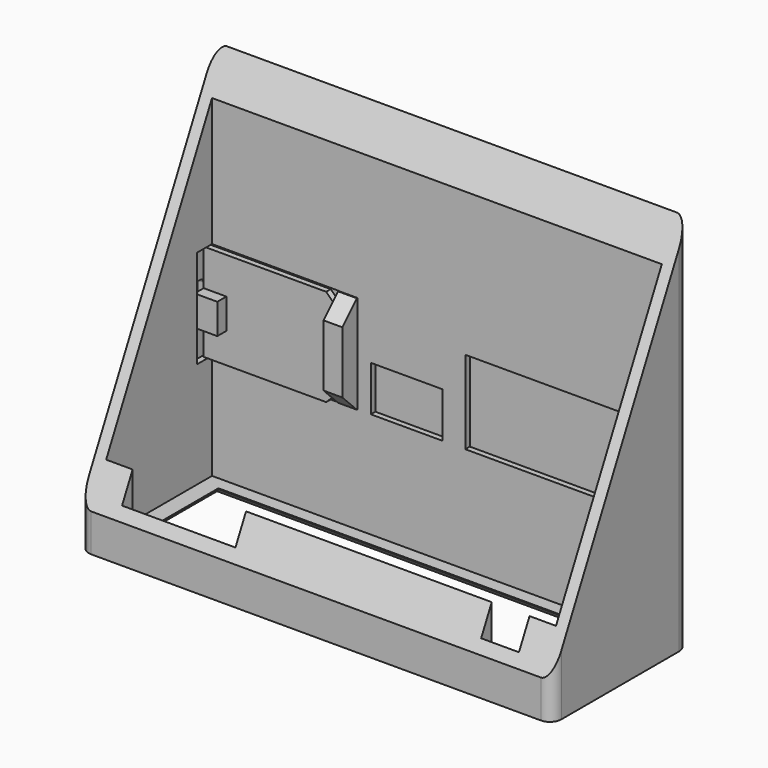
from build123d import *

# Parameters (mm, degrees)
SKETCH_W             = 125
SKETCH_H             = 45
PAD_DEPTH            = 100
SKETCH001_W          = 110
SKETCH001_H          = 28
POCKET_DEPTH         = 100
SKETCH002_W          = 119
SKETCH002_H          = 35
POCKET001_DEPTH      = 98
SKETCH003_W          = 30
SKETCH003_H          = 3.5
SKETCH003_W_2        = 10
POCKET002_DEPTH      = 98
FILLET001_R          = 3
CHAMFER_SIZE         = 1.8
POCKET003_DEPTH      = 125
SKETCH005_W          = 35
SKETCH005_H          = 26
POCKET004_DEPTH      = 2
POCKET004_DEPTH_BACK = -5
SKETCH006_W          = 5
SKETCH006_H          = 25.95
PAD001_DEPTH         = 5
CHAMFER001_SIZE      = 4.8
SKETCH007_W          = 4
SKETCH007_H          = 9
POCKET005_DEPTH      = 5
FILLET_R             = 1
SKETCH008_W          = 19
SKETCH008_H          = 12
SKETCH008_W_2        = 44
SKETCH008_H_2        = 22
POCKET006_DEPTH      = 1.5
SKETCH009_W          = 34.4
SKETCH009_H          = 25.7
PAD002_DEPTH         = 1.5
SKETCH010_W          = 24.1
SKETCH010_H          = 16
PAD003_DEPTH         = 0.8
SKETCH011_W          = 15
SKETCH011_H          = 12
PAD004_DEPTH         = 2.5
CHAMFER002_SIZE      = 2
SKETCH012_W          = 6
SKETCH012_H          = 8
PAD005_DEPTH         = 3


with BuildPart() as body:
    # Sketch → Pad (new body)
    with BuildSketch(Plane.XY):
        with Locations((62.5, 22.5)):
            Rectangle(SKETCH_W, SKETCH_H)
    extrude(amount=PAD_DEPTH)

    # Sketch001 (on Face6 of Pad) → Pocket (cut)
    with BuildSketch(Plane.XY.offset(100)):
        with Locations((62.5, 22.5)):
            Rectangle(SKETCH001_W, SKETCH001_H)
    extrude(amount=-POCKET_DEPTH, mode=Mode.SUBTRACT)

    # Sketch002 (on Face5 of Pocket) → Pocket001 (cut)
    with BuildSketch(Plane.XY.offset(100)):
        with Locations((62.5, 22.5)):
            Rectangle(SKETCH002_W, SKETCH002_H)
    extrude(amount=-POCKET001_DEPTH, mode=Mode.SUBTRACT)

    # Sketch003 (on Face5 of Pocket001) → Pocket002 (cut)
    with BuildSketch(Plane.XY.offset(100)):
        with Locations((25, 3.25)):
            Rectangle(SKETCH003_W, SKETCH003_H)
        with Locations((110, 3.25)):
            Rectangle(SKETCH003_W_2, SKETCH003_H)
    extrude(amount=-POCKET002_DEPTH, mode=Mode.SUBTRACT)

    # Fillet001
    fillet001_edges = [body.edges().sort_by_distance(p)[0] for p in [
        (125, 45, 50),
        (125, 0, 50),
        (0, 0, 50),
        (0, 45, 50),
    ]]
    fillet(fillet001_edges, radius=FILLET001_R)

    # Chamfer
    chamfer_edges = [body.edges().sort_by_distance(p)[0] for p in [
        (62.5, 8.5, 0),
        (62.5, 36.5, 0),
        (7.5, 22.5, 0),
        (117.5, 22.5, 0),
    ]]
    chamfer(chamfer_edges, length=CHAMFER_SIZE)

    # Sketch004 (on Face9 of Chamfer) → Pocket003 (cut)
    with BuildSketch(Plane(origin=(0, 0, 0), x_dir=(0, -1, 0), z_dir=(-1, 0, 0))):
        Polygon((0, 10), (-45, 100), (0, 100), align=None)
    extrude(amount=-POCKET003_DEPTH, mode=Mode.SUBTRACT)

    # Sketch005 (on Face30 of Pocket003) → Pocket004 (cut, two sides)
    with BuildSketch(Plane.XZ.offset(-40)) as pocket004_sk:
        with Locations((19, 43)):
            Rectangle(SKETCH005_W, SKETCH005_H)
    extrude(amount=-POCKET004_DEPTH, mode=Mode.SUBTRACT)
    extrude(pocket004_sk.sketch, amount=-POCKET004_DEPTH_BACK, mode=Mode.SUBTRACT)

    # Sketch006 (on Face30 of Pocket004) → Pad001 (join)
    with BuildSketch(Plane.XZ.offset(-40)):
        with Locations((39, 42.975)):
            Rectangle(SKETCH006_W, SKETCH006_H)
    extrude(amount=PAD001_DEPTH)

    # Chamfer001
    chamfer001_edges = [body.edges().sort_by_distance(p)[0] for p in [
        (39, 35, 55.95),
        (39, 35, 30),
    ]]
    chamfer(chamfer001_edges, length=CHAMFER001_SIZE)

    # Sketch007 (on Face27 of Chamfer001) → Pocket005 (cut)
    with BuildSketch(Plane.YZ.offset(1.5)):
        with Locations((37, 43.5)):
            Rectangle(SKETCH007_W, SKETCH007_H)
    extrude(amount=-POCKET005_DEPTH, mode=Mode.SUBTRACT)

    # Fillet
    fillet_edges = [body.edges().sort_by_distance(p)[0] for p in [
        (0.75, 39, 39),
        (0.75, 39, 48),
        (0.75, 35, 39),
        (0.75, 35, 48),
    ]]
    fillet(fillet_edges, radius=FILLET_R)

    # Sketch008 (on Face16 of Fillet) → Pocket006 (cut)
    with BuildSketch(Plane.XZ.offset(-40)):
        with Locations((54.5, 36)):
            Rectangle(SKETCH008_W, SKETCH008_H)
        with Locations((92, 41)):
            Rectangle(SKETCH008_W_2, SKETCH008_H_2)
    extrude(amount=-POCKET006_DEPTH, mode=Mode.SUBTRACT)


with BuildPart() as body002:
    # Sketch009 → Pad002 (new body)
    with BuildSketch(Plane.XZ):
        with Locations((17.2, 12.85)):
            Rectangle(SKETCH009_W, SKETCH009_H)
    extrude(amount=PAD002_DEPTH)

    # Sketch010 (on Face5 of Pad002) → Pad003 (join)
    with BuildSketch(Plane(origin=(0, 0, 0), x_dir=(1, 0, 0), z_dir=(0, 1, 0))):
        with Locations((12.05, -12.8)):
            Rectangle(SKETCH010_W, SKETCH010_H)
    extrude(amount=PAD003_DEPTH)

    # Sketch011 (on Face11 of Pad003) → Pad004 (join)
    with BuildSketch(Plane(origin=(0, 0.8, 0), x_dir=(1, 0, 0), z_dir=(0, 1, 0))):
        with Locations((15.1, -13)):
            Rectangle(SKETCH011_W, SKETCH011_H)
    extrude(amount=PAD004_DEPTH)

    # Chamfer002
    chamfer002_edges = [body002.edges().sort_by_distance(p)[0] for p in [
        (34.4, -0.75, 25.7),
        (34.4, -0.75, 0),
    ]]
    chamfer(chamfer002_edges, length=CHAMFER002_SIZE)

    # Sketch012 (on Face5 of Chamfer002) → Pad005 (join)
    with BuildSketch(Plane.XZ.offset(1.5)):
        with Locations((3, 12)):
            Rectangle(SKETCH012_W, SKETCH012_H)
    extrude(amount=PAD005_DEPTH)


with BuildPart() as body002_1:
    # Body002 placement: moved
    add(body002.part.moved(Location((2, 40, 30))))


solid = Compound([body.part, body002_1.part])
